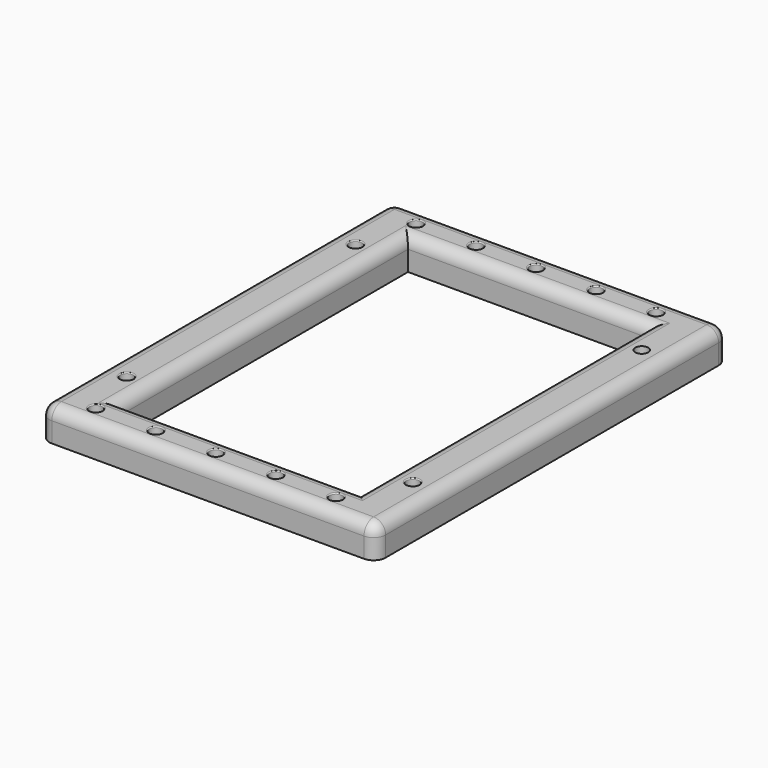
from build123d import *

# Parameters (mm, degrees)
SKETCH013_R      = 3
EXTRUDE013_DEPTH = 3.5
SKETCH012_W      = 84
SKETCH012_H      = 110
SKETCH012_R      = 1.625
SKETCH012_W_2    = 60
SKETCH012_H_2    = 90
EXTRUDE012_DEPTH = 8
FILLET018_R      = 3
FILLET019_R      = 0.25


with BuildPart() as extrude013:
    # Sketch013 → Extrude013 (new body)
    with BuildSketch(Plane.XY):
        with Locations((24.3, 95.75)):
            Circle(SKETCH013_R)
        with Locations((95.8, 95.75)):
            Circle(SKETCH013_R)
        with Locations((95.8, 24.25)):
            Circle(SKETCH013_R)
        with Locations((24.3, 24.25)):
            Circle(SKETCH013_R)
    extrude(amount=EXTRUDE013_DEPTH)


with BuildPart() as n2holder:
    # Sketch012 → Extrude012 (new body)
    with BuildSketch(Plane.XY):
        with Locations((60, 60)):
            Rectangle(SKETCH012_W, SKETCH012_H)
        with Locations((24.3, 95.75)):
            Circle(SKETCH012_R, mode=Mode.SUBTRACT)
        with Locations((95.8, 95.75)):
            Circle(SKETCH012_R, mode=Mode.SUBTRACT)
        with Locations((95.8, 24.25)):
            Circle(SKETCH012_R, mode=Mode.SUBTRACT)
        with Locations((24.3, 24.25)):
            Circle(SKETCH012_R, mode=Mode.SUBTRACT)
        with Locations((28, 10)):
            Circle(SKETCH012_R, mode=Mode.SUBTRACT)
        with Locations((43, 10)):
            Circle(SKETCH012_R, mode=Mode.SUBTRACT)
        with Locations((58, 10)):
            Circle(SKETCH012_R, mode=Mode.SUBTRACT)
        with Locations((73, 10)):
            Circle(SKETCH012_R, mode=Mode.SUBTRACT)
        with Locations((88, 10)):
            Circle(SKETCH012_R, mode=Mode.SUBTRACT)
        with Locations((28, 110)):
            Circle(SKETCH012_R, mode=Mode.SUBTRACT)
        with Locations((43, 110)):
            Circle(SKETCH012_R, mode=Mode.SUBTRACT)
        with Locations((58, 110)):
            Circle(SKETCH012_R, mode=Mode.SUBTRACT)
        with Locations((73, 110)):
            Circle(SKETCH012_R, mode=Mode.SUBTRACT)
        with Locations((88, 110)):
            Circle(SKETCH012_R, mode=Mode.SUBTRACT)
        with Locations((60, 60)):
            Rectangle(SKETCH012_W_2, SKETCH012_H_2, mode=Mode.SUBTRACT)
    extrude(amount=EXTRUDE012_DEPTH)

    # Fillet018
    fillet018_edges = [n2holder.edges().sort_by_distance(p)[0] for p in [
        (18, 115, 4),
        (18, 5, 4),
        (18, 60, 8),
        (102, 5, 4),
        (60, 5, 8),
        (102, 115, 4),
        (102, 60, 8),
        (60, 115, 8),
        (30, 60, 8),
        (60, 15, 8),
        (90, 60, 8),
        (60, 105, 8),
    ]]
    fillet(fillet018_edges, radius=FILLET018_R)

    # Fillet019
    fillet019_edges = [n2holder.edges().sort_by_distance(p)[0] for p in [
        (86.375, 110, 8),
        (71.375, 110, 8),
        (56.375, 110, 8),
        (41.375, 110, 8),
        (26.375, 110, 8),
        (86.375, 10, 8),
        (71.375, 10, 8),
        (56.375, 10, 8),
        (41.375, 10, 8),
        (26.375, 10, 8),
        (22.675, 24.25, 8),
        (94.175, 24.25, 8),
        (22.675, 95.75, 8),
    ]]
    fillet(fillet019_edges, radius=FILLET019_R)

    # Cut021: cut Extrude013
    add(extrude013.part, mode=Mode.SUBTRACT)


solid = n2holder.part
